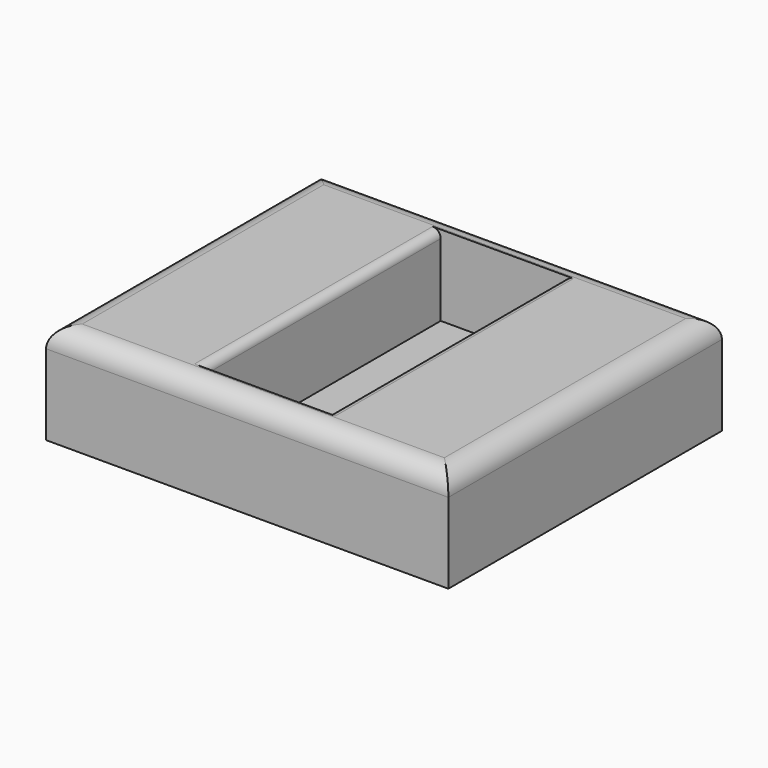
from build123d import *

# Parameters (mm, degrees)
F0_W     = 100
F0_H     = 85
F0_W_2   = 31
F0_H_2   = 74
F1_DEPTH = 25
F2_DEPTH = 5
F3_R     = 5
F4_R     = 2


with BuildPart() as f1:
    # F0 (on Top) → F1 (new body)
    with BuildSketch(Plane.XY):
        Rectangle(F0_W, F0_H)
        Rectangle(F0_W_2, F0_H_2, mode=Mode.SUBTRACT)
    extrude(amount=F1_DEPTH)

    # F0 (on Top) → F2 (join)
    with BuildSketch(Plane.XY):
        Rectangle(F0_W_2, F0_H_2)
    extrude(amount=F2_DEPTH)

    # F3
    f3_edges = [f1.edges().sort_by_distance(p)[0] for p in [
        (0, 42.5, 25),
        (-50, 0, 25),
        (0, -42.5, 25),
        (50, 0, 25),
    ]]
    fillet(f3_edges, radius=F3_R)

    # F4
    f4_edges = [f1.edges().sort_by_distance(p)[0] for p in [
        (-15.5, 0, 25),
        (15.5, 0, 25),
    ]]
    fillet(f4_edges, radius=F4_R)


solid = f1.part
